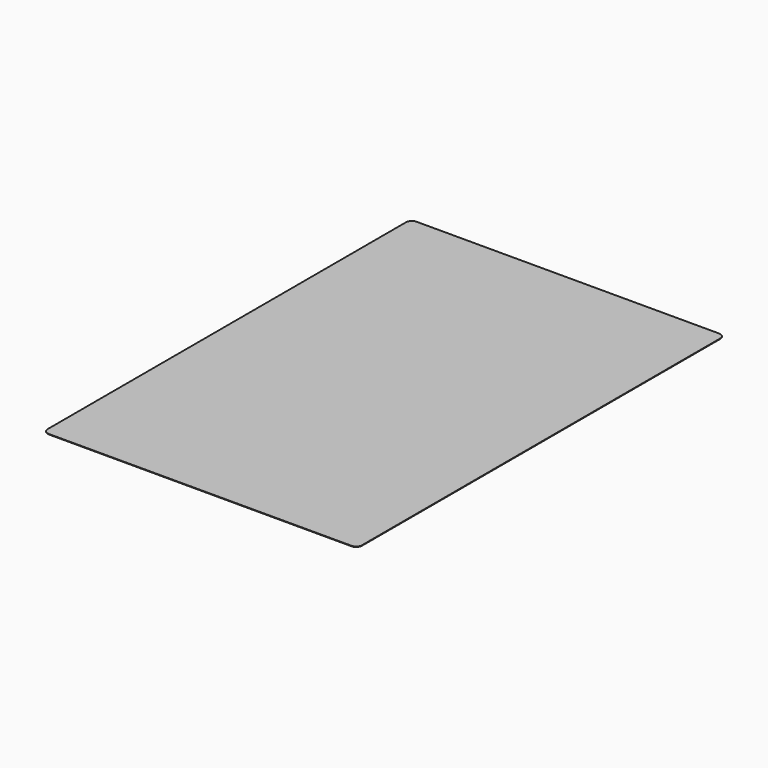
from build123d import *

# Parameters (mm, degrees)
BOX003_W     = 132
BOX003_H     = 193
BOX003_DEPTH = 0.2
FILLET001_R  = 2.5
FILLET002_R  = 2.5
FILLET003_R  = 2.5
FILLET004_R  = 2.5


with BuildPart() as part:
    # Box003 → Box003 (new body)
    with BuildSketch(Plane(origin=(-37, -162, 13.9), x_dir=(1, 0, 0), z_dir=(0, 0, 1))):
        with Locations((66, 96.5)):
            Rectangle(BOX003_W, BOX003_H)
    extrude(amount=BOX003_DEPTH)

    # Fillet001
    fillet001_edges = [part.edges().sort_by_distance(p)[0] for p in [
        (-37, 31, 14),
    ]]
    fillet(fillet001_edges, radius=FILLET001_R)

    # Fillet002
    fillet002_edges = [part.edges().sort_by_distance(p)[0] for p in [
        (95, 31, 14),
    ]]
    fillet(fillet002_edges, radius=FILLET002_R)

    # Fillet003
    fillet003_edges = [part.edges().sort_by_distance(p)[0] for p in [
        (-37, -162, 14),
    ]]
    fillet(fillet003_edges, radius=FILLET003_R)

    # Fillet004
    fillet004_edges = [part.edges().sort_by_distance(p)[0] for p in [
        (95, -162, 14),
    ]]
    fillet(fillet004_edges, radius=FILLET004_R)


solid = part.part
